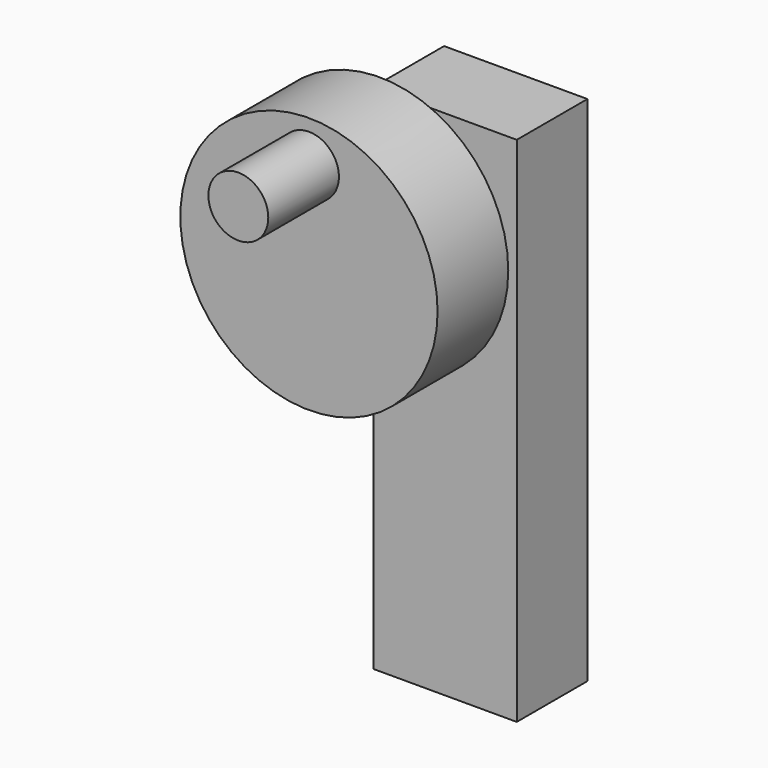
from build123d import *

# Parameters (mm, degrees)
F0_R     = 36.996281
F1_DEPTH = 25.4
F2_R     = 8.613361
F3_DEPTH = 25.4
F5_W     = 41.220195
F5_H     = 147.381902
F6_DEPTH = 25.4


with BuildPart() as f1:
    # F0 (on Front) → F1 (new body)
    with BuildSketch(Plane.XZ):
        Circle(F0_R)
    extrude(amount=F1_DEPTH)

    # F2 (on face) → F3 (join)
    with BuildSketch(Plane.XZ.offset(25.4)):
        with Locations((0, 24.887346)):
            Circle(F2_R)
    extrude(amount=F3_DEPTH)


with BuildPart() as f6:
    # F5 (on offset) → F6 (new body)
    with BuildSketch(Plane.XZ.offset(-25.4)):
        with Locations((-1.487699, -56.665361)):
            Rectangle(F5_W, F5_H)
    extrude(amount=-F6_DEPTH)


solid = Compound([f1.part, f6.part])
